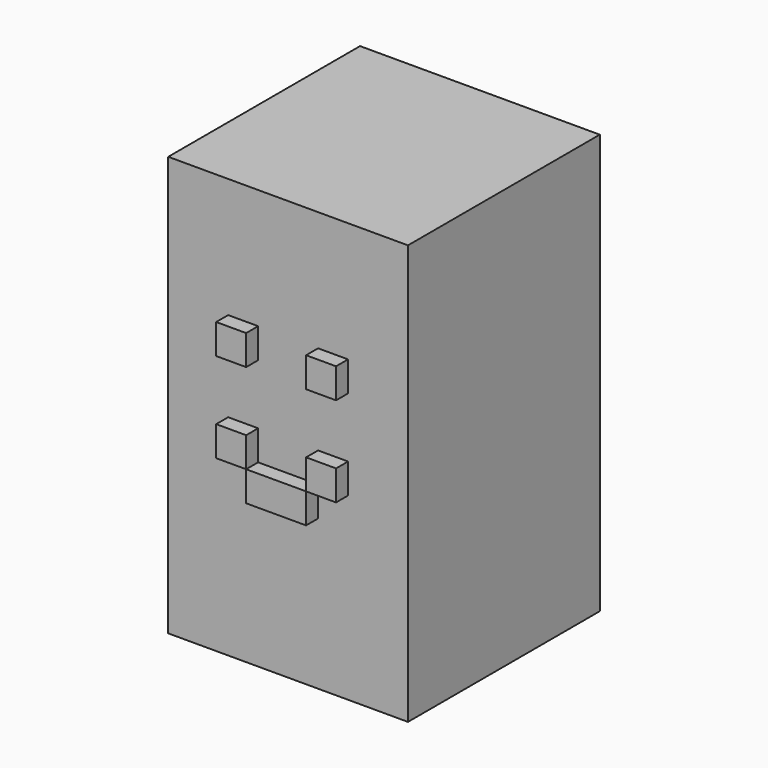
from build123d import *

# Parameters (mm, degrees)
SKETCH_W     = 8
SKETCH_H     = 8
PAD_DEPTH    = 14
SKETCH001_W  = 1
SKETCH001_H  = 1
PAD001_DEPTH = 0.5
SKETCH002_W  = 2
SKETCH002_H  = 1
PAD002_DEPTH = 0.5


with BuildPart() as part:
    # Sketch → Pad (new body)
    with BuildSketch(Plane.XY):
        with Locations((4, 4)):
            Rectangle(SKETCH_W, SKETCH_H)
    extrude(amount=PAD_DEPTH)

    # Sketch001 (on Face1 of Pad) → Pad001 (join)
    with BuildSketch(Plane.XZ):
        with Locations((2.5, 9.5)):
            Rectangle(SKETCH001_W, SKETCH001_H)
        with Locations((5.5, 9.5)):
            Rectangle(SKETCH001_W, SKETCH001_H)
        with Locations((2.5, 6.5)):
            Rectangle(SKETCH001_W, SKETCH001_H)
        with Locations((5.5, 6.5)):
            Rectangle(SKETCH001_W, SKETCH001_H)
    extrude(amount=PAD001_DEPTH)

    # Sketch002 (on Face1 of Pad001) → Pad002 (join)
    with BuildSketch(Plane.XZ):
        with Locations((4, 5.5)):
            Rectangle(SKETCH002_W, SKETCH002_H)
    extrude(amount=PAD002_DEPTH)


solid = part.part
